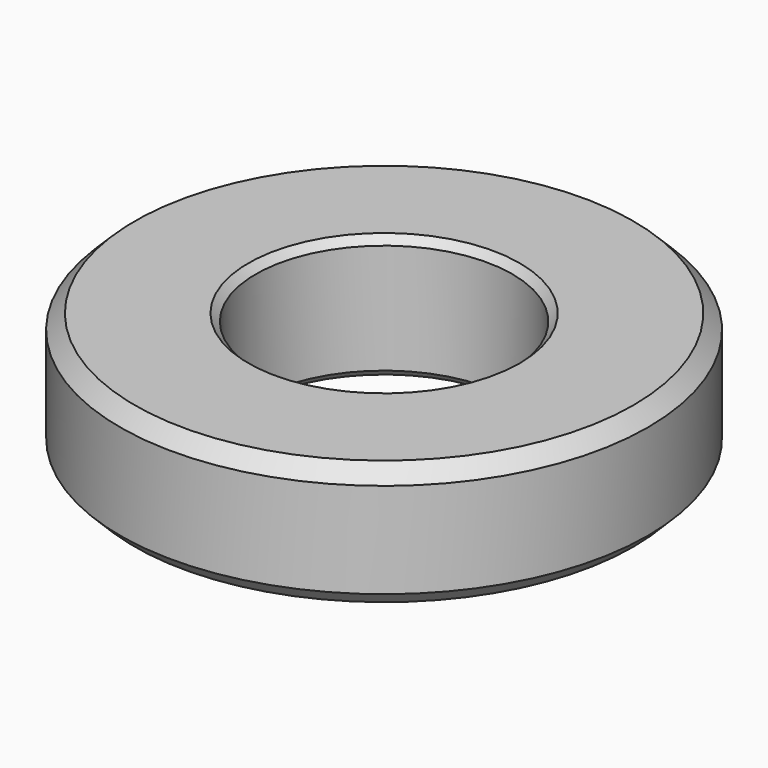
from build123d import *

# Parameters (mm, degrees)
F0_W    = 18.5
F0_H    = 17
F2_SIZE = 2
F3_SIZE = 1


with BuildPart() as f1:
    # F0 (on Front) → F1 (revolve)
    with BuildSketch(Plane.XZ):
        with Locations((26.75, 8.5)):
            Rectangle(F0_W, F0_H)
    revolve(axis=Axis((0, 0, 7.291329), (0, 0, 1)))

    # F2
    f2_edges = [f1.edges().sort_by_distance(p)[0] for p in [
        (-36, 0, 17),
        (-36, 0, 0),
        (36, 0, 8.5),
    ]]
    chamfer(f2_edges, length=F2_SIZE)

    # F3
    f3_edges = [f1.edges().sort_by_distance(p)[0] for p in [
        (-17.5, 0, 17),
        (-17.5, 0, 0),
    ]]
    chamfer(f3_edges, length=F3_SIZE)


solid = f1.part
